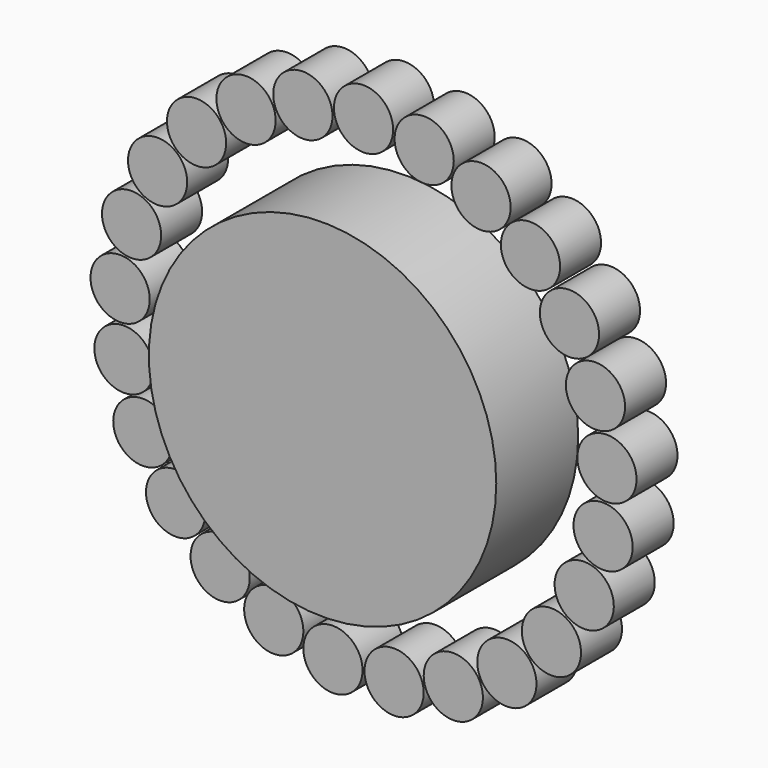
from build123d import *

# Parameters (mm, degrees)
F0_R     = 43.094338
F1_DEPTH = 25.4
F2_R     = 7.345004
F3_DEPTH = 12.7
F4_COUNT = 25


with BuildPart() as f1:
    # F0 (on Front) → F1 (new body)
    with BuildSketch(Plane.XZ):
        Circle(F0_R)
    extrude(amount=F1_DEPTH)


with BuildPart() as f3:
    # F2 (on Front) → F3 (new body)
    with BuildSketch(Plane.XZ):
        with Locations((0, 60.509354)):
            Circle(F2_R)
    extrude(amount=F3_DEPTH)


with BuildPart() as f4_1:
    # F4: instance of F3
    add(f3.part.rotate(Axis((0, -25.4, 0), (0, 1, 0)), 1 * 360 / F4_COUNT))


with BuildPart() as f4_2:
    # F4: instance of F3
    add(f3.part.rotate(Axis((0, -25.4, 0), (0, 1, 0)), 2 * 360 / F4_COUNT))


with BuildPart() as f4_3:
    # F4: instance of F3
    add(f3.part.rotate(Axis((0, -25.4, 0), (0, 1, 0)), 3 * 360 / F4_COUNT))


with BuildPart() as f4_4:
    # F4: instance of F3
    add(f3.part.rotate(Axis((0, -25.4, 0), (0, 1, 0)), 4 * 360 / F4_COUNT))


with BuildPart() as f4_5:
    # F4: instance of F3
    add(f3.part.rotate(Axis((0, -25.4, 0), (0, 1, 0)), 5 * 360 / F4_COUNT))


with BuildPart() as f4_6:
    # F4: instance of F3
    add(f3.part.rotate(Axis((0, -25.4, 0), (0, 1, 0)), 6 * 360 / F4_COUNT))


with BuildPart() as f4_7:
    # F4: instance of F3
    add(f3.part.rotate(Axis((0, -25.4, 0), (0, 1, 0)), 7 * 360 / F4_COUNT))


with BuildPart() as f4_8:
    # F4: instance of F3
    add(f3.part.rotate(Axis((0, -25.4, 0), (0, 1, 0)), 8 * 360 / F4_COUNT))


with BuildPart() as f4_9:
    # F4: instance of F3
    add(f3.part.rotate(Axis((0, -25.4, 0), (0, 1, 0)), 9 * 360 / F4_COUNT))


with BuildPart() as f4_10:
    # F4: instance of F3
    add(f3.part.rotate(Axis((0, -25.4, 0), (0, 1, 0)), 10 * 360 / F4_COUNT))


with BuildPart() as f4_11:
    # F4: instance of F3
    add(f3.part.rotate(Axis((0, -25.4, 0), (0, 1, 0)), 11 * 360 / F4_COUNT))


with BuildPart() as f4_12:
    # F4: instance of F3
    add(f3.part.rotate(Axis((0, -25.4, 0), (0, 1, 0)), 12 * 360 / F4_COUNT))


with BuildPart() as f4_13:
    # F4: instance of F3
    add(f3.part.rotate(Axis((0, -25.4, 0), (0, 1, 0)), 13 * 360 / F4_COUNT))


with BuildPart() as f4_14:
    # F4: instance of F3
    add(f3.part.rotate(Axis((0, -25.4, 0), (0, 1, 0)), 14 * 360 / F4_COUNT))


with BuildPart() as f4_15:
    # F4: instance of F3
    add(f3.part.rotate(Axis((0, -25.4, 0), (0, 1, 0)), 15 * 360 / F4_COUNT))


with BuildPart() as f4_16:
    # F4: instance of F3
    add(f3.part.rotate(Axis((0, -25.4, 0), (0, 1, 0)), 16 * 360 / F4_COUNT))


with BuildPart() as f4_17:
    # F4: instance of F3
    add(f3.part.rotate(Axis((0, -25.4, 0), (0, 1, 0)), 17 * 360 / F4_COUNT))


with BuildPart() as f4_18:
    # F4: instance of F3
    add(f3.part.rotate(Axis((0, -25.4, 0), (0, 1, 0)), 18 * 360 / F4_COUNT))


with BuildPart() as f4_19:
    # F4: instance of F3
    add(f3.part.rotate(Axis((0, -25.4, 0), (0, 1, 0)), 19 * 360 / F4_COUNT))


with BuildPart() as f4_20:
    # F4: instance of F3
    add(f3.part.rotate(Axis((0, -25.4, 0), (0, 1, 0)), 20 * 360 / F4_COUNT))


with BuildPart() as f4_21:
    # F4: instance of F3
    add(f3.part.rotate(Axis((0, -25.4, 0), (0, 1, 0)), 21 * 360 / F4_COUNT))


with BuildPart() as f4_22:
    # F4: instance of F3
    add(f3.part.rotate(Axis((0, -25.4, 0), (0, 1, 0)), 22 * 360 / F4_COUNT))


with BuildPart() as f4_23:
    # F4: instance of F3
    add(f3.part.rotate(Axis((0, -25.4, 0), (0, 1, 0)), 23 * 360 / F4_COUNT))


with BuildPart() as f4_24:
    # F4: instance of F3
    add(f3.part.rotate(Axis((0, -25.4, 0), (0, 1, 0)), 24 * 360 / F4_COUNT))


solid = Compound([f1.part, f3.part, f4_1.part, f4_2.part, f4_3.part, f4_4.part, f4_5.part, f4_6.part, f4_7.part, f4_8.part, f4_9.part, f4_10.part, f4_11.part, f4_12.part, f4_13.part, f4_14.part, f4_15.part, f4_16.part, f4_17.part, f4_18.part, f4_19.part, f4_20.part, f4_21.part, f4_22.part, f4_23.part, f4_24.part])
